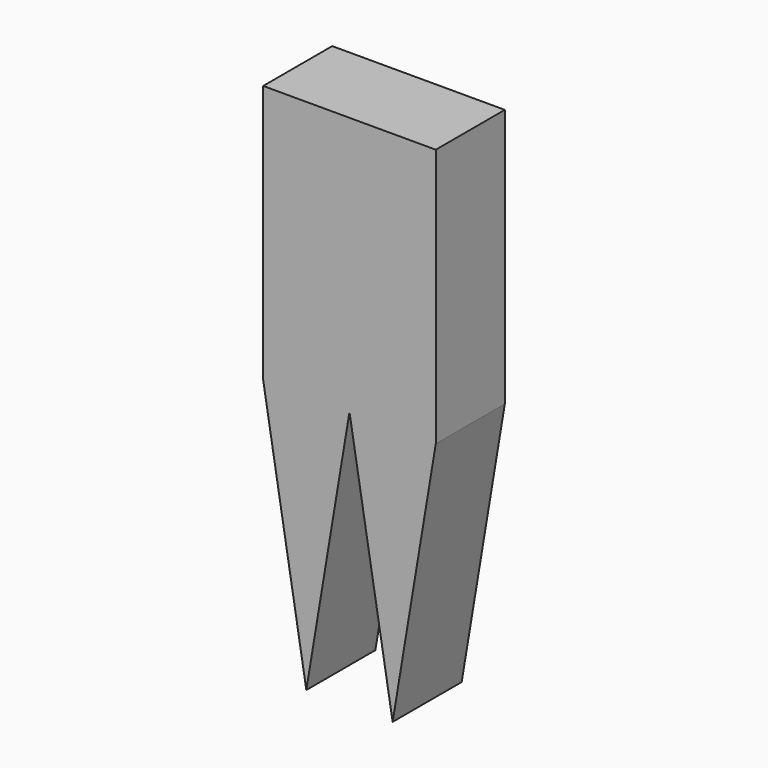
from build123d import *

# Parameters (mm, degrees)
F1_DEPTH = 3.175


with BuildPart() as f1:
    # F0 (on Front) → F1 (new body)
    with BuildSketch(Plane.XZ):
        Polygon((1.5875, -14.2875), (3.175, -4.7625), (0, -4.7625), align=None)
        Polygon((0, -4.7625), (3.175, -4.7625), (3.175, 4.7625), (-3.175, 4.7625), (-3.175, -4.7625), align=None)
        Polygon((-1.5875, -14.2875), (0, -4.7625), (-3.175, -4.7625), align=None)
    extrude(amount=F1_DEPTH)


solid = f1.part
